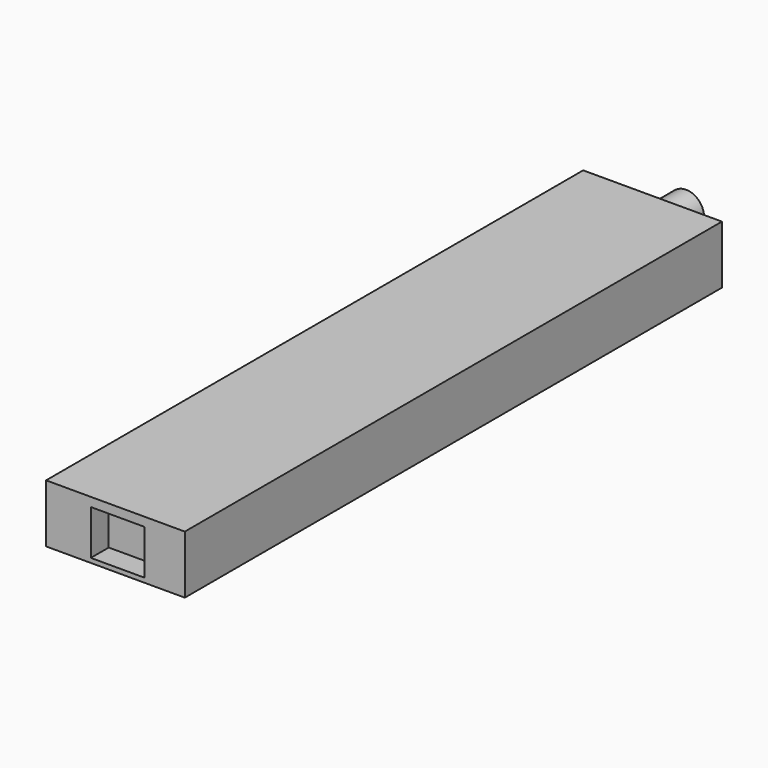
from build123d import *

# Parameters (mm, degrees)
SKETCH015_W     = 31
SKETCH015_H     = 150
PAD010_DEPTH    = 13
SKETCH016_W     = 12
SKETCH016_H     = 10
POCKET004_DEPTH = 5
SKETCH017_R     = 4
PAD011_DEPTH    = 10


with BuildPart() as part:
    # Sketch015 → Pad010 (new body)
    with BuildSketch(Plane.XY):
        with Locations((15.5, 75)):
            Rectangle(SKETCH015_W, SKETCH015_H)
    extrude(amount=PAD010_DEPTH)

    # Sketch016 (on Face1 of Pad010) → Pocket004 (cut)
    with BuildSketch(Plane.XZ):
        with Locations((16, 6)):
            Rectangle(SKETCH016_W, SKETCH016_H)
    extrude(amount=-POCKET004_DEPTH, mode=Mode.SUBTRACT)

    # Sketch017 (on Face10 of Pocket004) → Pad011 (join)
    with BuildSketch(Plane(origin=(0, 150, 0), x_dir=(-1, 0, 0), z_dir=(0, 1, 0))):
        with Locations((-15, 6)):
            Circle(SKETCH017_R)
    extrude(amount=PAD011_DEPTH)


with BuildPart() as part_1:
    # Body008 placement: moved
    add(part.part.moved(Location((25, 37, -13.2))))


solid = part_1.part
